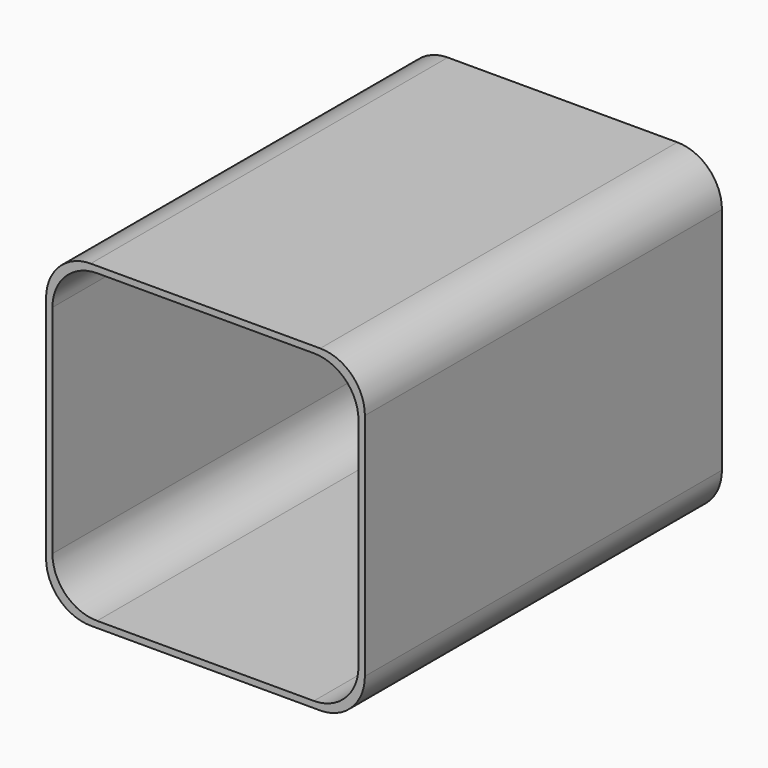
from build123d import *

# Parameters (mm, degrees)
F1_DEPTH = 70
F2_ANGLE = 90


with BuildPart() as f1:
    # F0 (on Top) → F1 (new body)
    with BuildSketch(Plane.XY):
        with BuildLine():
            Line((43, 0), (7, 0))
            ThreePointArc((7, 0), (2.0502525317, -2.0502525317), (0, -7))
            Line((0, -7), (0, -43))
            ThreePointArc((0, -43), (2.0502525317, -47.9497474683), (7, -50))
            Line((7, -50), (43, -50))
            ThreePointArc((43, -50), (47.9497474683, -47.9497474683), (50, -43))
            Line((50, -43), (50, -7))
            ThreePointArc((50, -7), (47.9497474683, -2.0502525317), (43, 0))
        make_face()
        with BuildLine():
            ThreePointArc((1, -8), (3.0502525317, -3.0502525317), (8, -1))
            Line((8, -1), (42, -1))
            ThreePointArc((42, -1), (46.9497474683, -3.0502525317), (49, -8))
            Line((49, -8), (49, -42))
            ThreePointArc((49, -42), (46.9497474683, -46.9497474683), (42, -49))
            Line((42, -49), (8, -49))
            ThreePointArc((8, -49), (3.0502525317, -46.9497474683), (1, -42))
            Line((1, -42), (1, -8))
        make_face(mode=Mode.SUBTRACT)
    extrude(amount=-F1_DEPTH)


with BuildPart() as f1_1:
    # F2: moved
    add(f1.part.rotate(Axis((25, 0, 0), (1, 0, 0)), F2_ANGLE))


solid = f1_1.part
